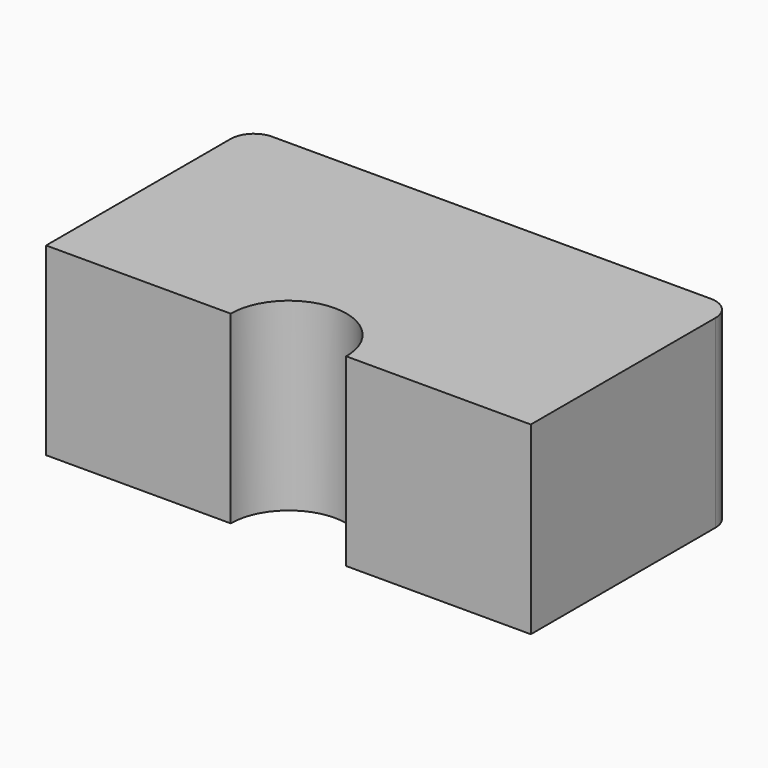
from build123d import *

# Parameters (mm, degrees)
F0_W     = 210
F0_H     = 110
F1_DEPTH = 80
F3_DEPTH = 80
F4_R     = 10


with BuildPart() as f1:
    # F0 (on Top) → F1 (new body)
    with BuildSketch(Plane.XY):
        with Locations((32.656658, -16.551609)):
            Rectangle(F0_W, F0_H)
    extrude(amount=F1_DEPTH)

    # F2 (on face) → F3 (cut)
    with BuildSketch(Plane.XY.offset(80)):
        with BuildLine():
            Line((7.656658, -71.551609), (57.656658, -71.551609))
            ThreePointArc((57.656658, -71.551609), (32.656658, -46.398145), (7.656658, -71.551609))
        make_face()
    extrude(amount=-F3_DEPTH, mode=Mode.SUBTRACT)

    # F4
    f4_edges = [f1.edges().sort_by_distance(p)[0] for p in [
        (-72.343342, 38.448391, 40),
        (137.656658, 38.448391, 40),
    ]]
    fillet(f4_edges, radius=F4_R)


solid = f1.part
